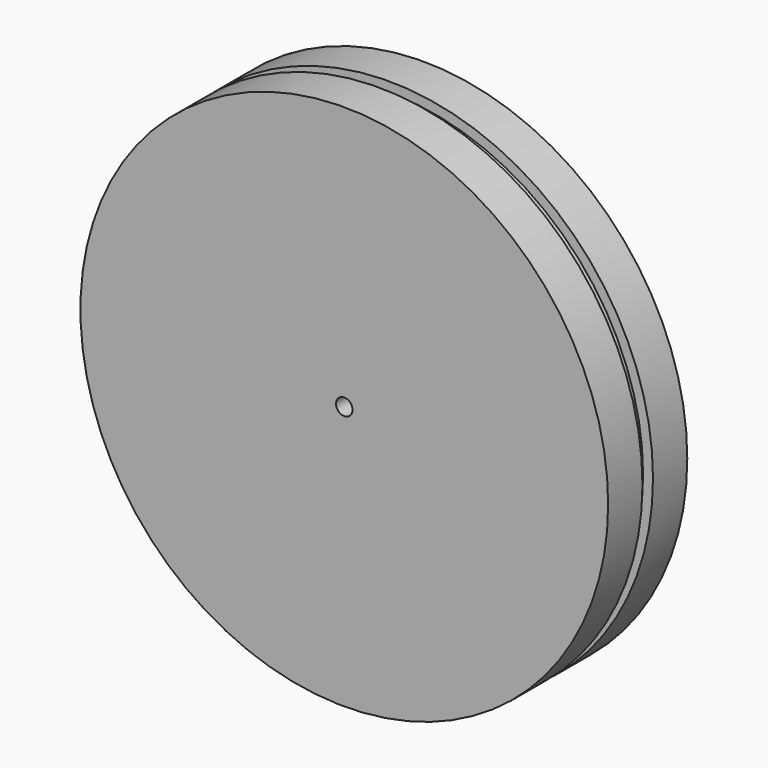
from build123d import *

# Parameters (mm, degrees)
F0_R     = 48.895
F0_R_2   = 1.5875
F1_DEPTH = 9.525
F0_R_3   = 50.8
F2_DEPTH = 9.525
F3_DEPTH = 1.27


with BuildPart() as f1:
    # F0 (on Front) → F1 (new body, symmetric)
    with BuildSketch(Plane.XZ):
        with Locations((-23.888467, 6.381166)):
            Circle(F0_R)
        with Locations((-23.888467, 6.381166)):
            Circle(F0_R_2, mode=Mode.SUBTRACT)
    extrude(amount=F1_DEPTH, both=True)

    # F0 (on Front) → F2 (join, symmetric)
    with BuildSketch(Plane.XZ):
        with Locations((-23.888467, 6.381166)):
            Circle(F0_R_3)
        with Locations((-23.888467, 6.381166)):
            Circle(F0_R, mode=Mode.SUBTRACT)
    extrude(amount=F2_DEPTH, both=True)

    # F0 (on Front) → F3 (cut, symmetric)
    with BuildSketch(Plane.XZ):
        with Locations((-23.888467, 6.381166)):
            Circle(F0_R_3)
        with Locations((-23.888467, 6.381166)):
            Circle(F0_R, mode=Mode.SUBTRACT)
    extrude(amount=F3_DEPTH, both=True, mode=Mode.SUBTRACT)


solid = f1.part
